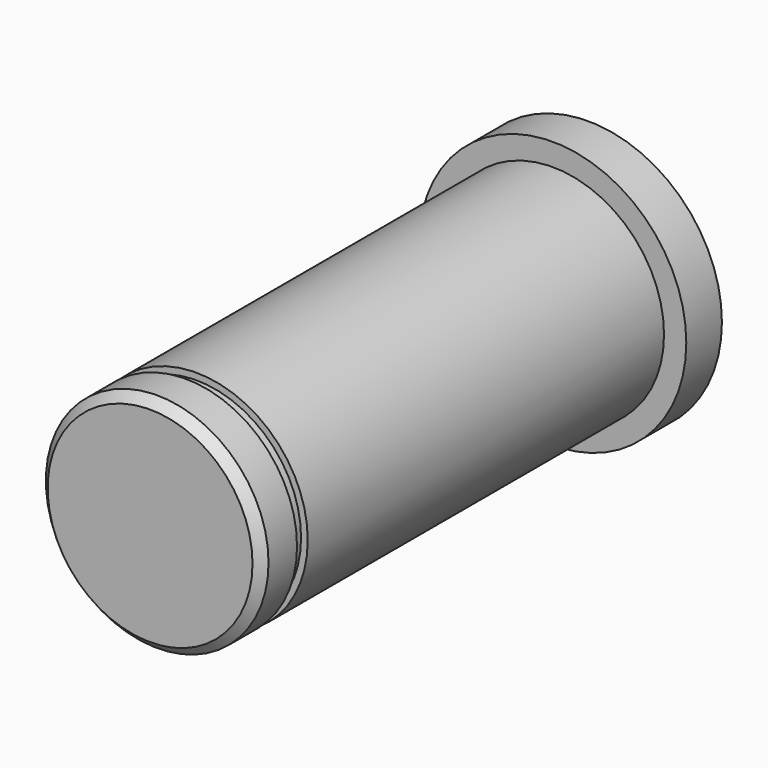
from build123d import *

# Parameters (mm, degrees)
F0_R     = 15
F1_DEPTH = 5
F2_R     = 12.5
F3_DEPTH = 50
F4_R     = 11.75
F5_DEPTH = 1.5
F7_R     = 12.5
F8_DEPTH = 5
F9_SIZE  = 1


with BuildPart() as f1:
    # F0 (on Front) → F1 (new body)
    with BuildSketch(Plane.XZ):
        Circle(F0_R)
    extrude(amount=F1_DEPTH)

    # F2 (on face) → F3 (join)
    with BuildSketch(Plane.XZ.offset(5)):
        Circle(F2_R)
    extrude(amount=F3_DEPTH)

    # F4 (on face) → F5 (join)
    with BuildSketch(Plane.XZ.offset(55)):
        Circle(F4_R)
    extrude(amount=F5_DEPTH)

    # F7 (on face) → F8 (join)
    with BuildSketch(Plane.XZ.offset(56.5)):
        Circle(F7_R)
    extrude(amount=F8_DEPTH)

    # F9
    f9_edges = [f1.edges().sort_by_distance(p)[0] for p in [
        (-12.5, -61.5, 0),
    ]]
    chamfer(f9_edges, length=F9_SIZE)


solid = f1.part
